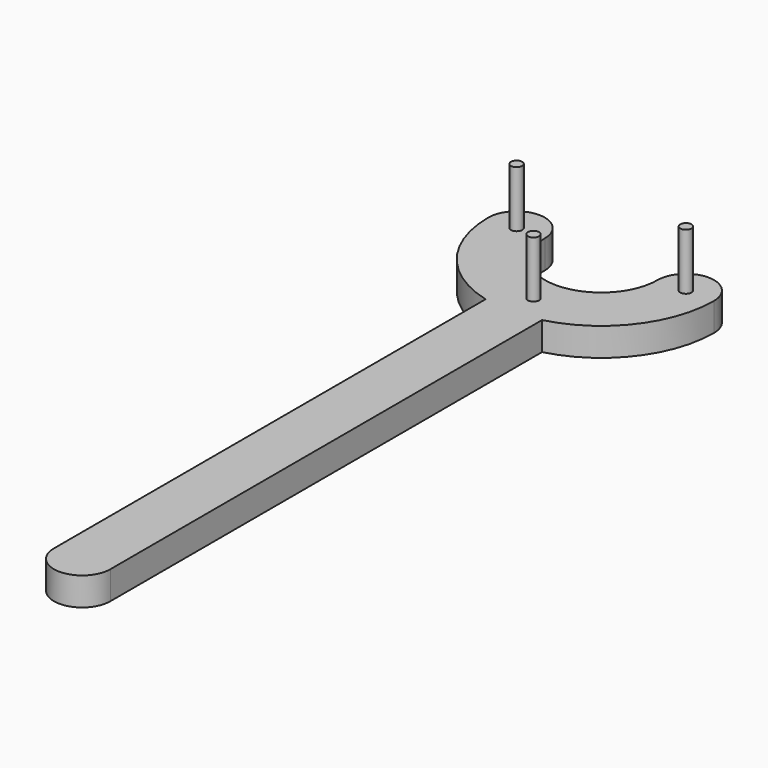
from build123d import *

# Parameters (mm, degrees)
BOX001_W          = 10
BOX001_H          = 100
BOX001_DEPTH      = 5
CYLINDER004_R     = 1
CYLINDER004_DEPTH = 10
CYLINDER005_R     = 1
CYLINDER005_DEPTH = 10
CYLINDER006_R     = 1
CYLINDER006_DEPTH = 10
CYLINDER007_R     = 5
CYLINDER007_DEPTH = 5
CYLINDER002_R     = 5
CYLINDER002_DEPTH = 5
CYLINDER003_R     = 5
CYLINDER003_DEPTH = 5
BOX_W             = 40
BOX_H             = 35
BOX_DEPTH         = 5
CYLINDER_R        = 10
CYLINDER_DEPTH    = 5
CYLINDER001_R     = 20
CYLINDER001_DEPTH = 5


with BuildPart() as cube001:
    # Box001 → Box001 (new body)
    with BuildSketch(Plane(origin=(-5, -115, 0), x_dir=(1, 0, 0), z_dir=(0, 0, 1))):
        with Locations((5, 50)):
            Rectangle(BOX001_W, BOX001_H)
    extrude(amount=BOX001_DEPTH)


with BuildPart() as cylinder004:
    # Cylinder004 → Cylinder004 (new body)
    with BuildSketch(Plane(origin=(0, -15, 5), x_dir=(1, 0, 0), z_dir=(0, 0, 1))):
        Circle(CYLINDER004_R)
    extrude(amount=CYLINDER004_DEPTH)


with BuildPart() as cylinder005:
    # Cylinder005 → Cylinder005 (new body)
    with BuildSketch(Plane(origin=(15, 0, 5), x_dir=(1, 0, 0), z_dir=(0, 0, 1))):
        Circle(CYLINDER005_R)
    extrude(amount=CYLINDER005_DEPTH)


with BuildPart() as cylinder006:
    # Cylinder006 → Cylinder006 (new body)
    with BuildSketch(Plane(origin=(-15, 0, 5), x_dir=(1, 0, 0), z_dir=(0, 0, 1))):
        Circle(CYLINDER006_R)
    extrude(amount=CYLINDER006_DEPTH)


with BuildPart() as cylinder007:
    # Cylinder007 → Cylinder007 (new body)
    with BuildSketch(Plane(origin=(0, -115, 0), x_dir=(1, 0, 0), z_dir=(0, 0, 1))):
        Circle(CYLINDER007_R)
    extrude(amount=CYLINDER007_DEPTH)


with BuildPart() as cylinder002:
    # Cylinder002 → Cylinder002 (new body)
    with BuildSketch(Plane(origin=(15, 0, 0), x_dir=(1, 0, 0), z_dir=(0, 0, 1))):
        Circle(CYLINDER002_R)
    extrude(amount=CYLINDER002_DEPTH)


with BuildPart() as cylinder003:
    # Cylinder003 → Cylinder003 (new body)
    with BuildSketch(Plane(origin=(-15, 0, 0), x_dir=(1, 0, 0), z_dir=(0, 0, 1))):
        Circle(CYLINDER003_R)
    extrude(amount=CYLINDER003_DEPTH)


with BuildPart() as cube:
    # Box → Box (new body)
    with BuildSketch(Plane(origin=(-20, 0, 0), x_dir=(1, 0, 0), z_dir=(0, 0, 1))):
        with Locations((20, 17.5)):
            Rectangle(BOX_W, BOX_H)
    extrude(amount=BOX_DEPTH)


with BuildPart() as cylinder:
    # Cylinder → Cylinder (new body)
    with BuildSketch(Plane.XY):
        Circle(CYLINDER_R)
    extrude(amount=CYLINDER_DEPTH)


with BuildPart() as obj1:
    # Cylinder001 → Cylinder001 (new body)
    with BuildSketch(Plane.XY):
        Circle(CYLINDER001_R)
    extrude(amount=CYLINDER001_DEPTH)

    # Cut: cut Cylinder
    add(cylinder.part, mode=Mode.SUBTRACT)

    # Cut001: cut Cube
    add(cube.part, mode=Mode.SUBTRACT)

    # Fusion: union Cylinder002, Cylinder003
    add(cylinder002.part)
    add(cylinder003.part)

    # Fusion001: union Cube001, Cylinder004, Cylinder005, Cylinder006, Cylinder007
    add(cube001.part)
    add(cylinder004.part)
    add(cylinder005.part)
    add(cylinder006.part)
    add(cylinder007.part)


solid = obj1.part
